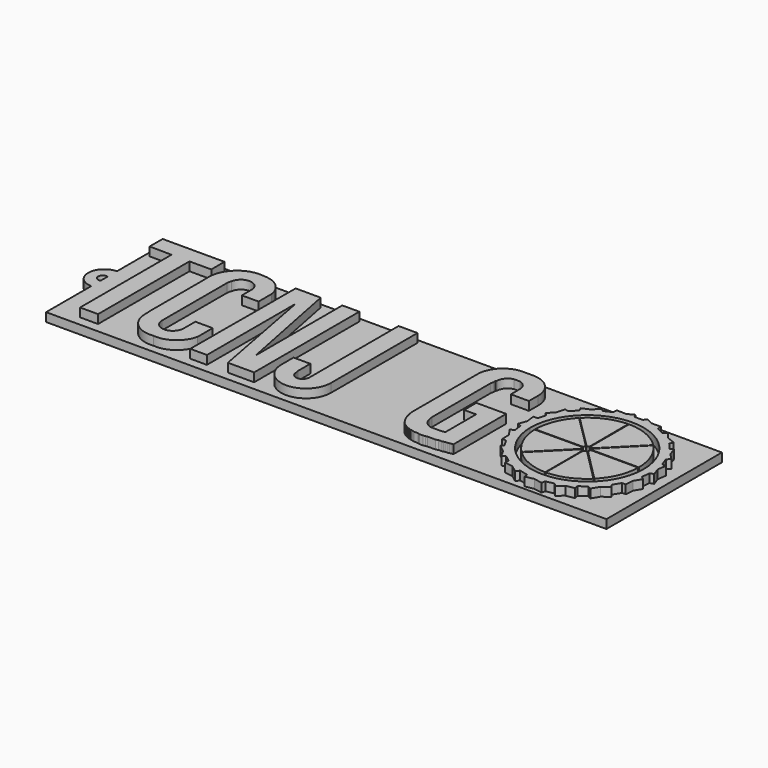
from build123d import *

# Parameters (mm, degrees)
F1_DEPTH = 2.54
F3_DEPTH = 1.27


with BuildPart() as f1:
    # F0 (on Top) → F1 (new body)
    with BuildSketch(Plane.XY):
        with BuildLine():
            Line((20.2388085143, -4.8551685796), (20.2208615876, -4.8728857521))
            ThreePointArc((20.2208615876, -4.8728857521), (22.5941960424, -6.4373678203), (25.3732144511, -7.035178208))
            Line((25.3732144511, -7.035178208), (25.3732144511, -0.2021755459))
            ThreePointArc((25.3732144511, -0.2021755459), (25.1911795936, -0.1619889805), (25.0303052219, -0.0678025382))
            Line((25.0303052219, -0.0678025382), (20.2388085143, -4.8551685796))
        make_face()
    extrude(amount=F1_DEPTH)


with BuildPart() as f1b:
    # F0 (on Top) → F1, piece 2 (new body)
    with BuildSketch(Plane.XY):
        with BuildLine():
            ThreePointArc((25.4460360782, -7.0355399518), (28.2674344304, -6.4418716657), (30.6671714392, -4.8437499606))
            Line((30.6671714392, -4.8437499606), (25.8550445346, -0.0087627248))
            ThreePointArc((25.8550445346, -0.0087627248), (25.6697399225, -0.1461755962), (25.4460360782, -0.2025376978))
            Line((25.4460360782, -0.2025376978), (25.4460360782, -7.0355399518))
        make_face()
    extrude(amount=F1_DEPTH)


with BuildPart() as f1c:
    # F0 (on Top) → F1, piece 3 (new body)
    with BuildSketch(Plane.XY):
        with BuildLine():
            ThreePointArc((30.741552545, -4.7695086759), (32.348006075, -2.3637159811), (32.9435151853, 0.4671673323))
            Line((32.9435151853, 0.4671673323), (26.0036706741, 0.469999295))
            ThreePointArc((26.0036706741, 0.469999295), (25.9958591342, 0.2655386863), (25.9190676274, 0.0758857792))
            Line((25.9190676274, 0.0758857792), (30.741552545, -4.7695086759))
        make_face()
    extrude(amount=F1_DEPTH)


with BuildPart() as f1d:
    # F0 (on Top) → F1, piece 4 (new body)
    with BuildSketch(Plane.XY):
        with BuildLine():
            ThreePointArc((32.9447425978, 0.5717830621), (32.4155590836, 3.3941413829), (30.8705670554, 5.8146250773))
            Line((30.8705670554, 5.8146250773), (25.8851022511, 0.8124837718))
            ThreePointArc((25.8851022511, 0.8124837718), (25.9516336853, 0.6982536254), (25.9901064643, 0.5717830621))
            Line((25.9901064643, 0.5717830621), (32.9447425978, 0.5717830621))
        make_face()
    extrude(amount=F1_DEPTH)


with BuildPart() as f1e:
    # F0 (on Top) → F1, piece 5 (new body)
    with BuildSketch(Plane.XY):
        with BuildLine():
            ThreePointArc((30.7975327821, 5.8904792336), (28.3552031429, 7.5615631262), (25.4581290727, 8.165266095))
            Line((25.4581290727, 8.165266095), (25.4581290727, 1.0400717004))
            ThreePointArc((25.4581290727, 1.0400717004), (25.6492612572, 0.9963921565), (25.8143413216, 0.8906188763))
            Line((25.8143413216, 0.8906188763), (30.7975327821, 5.8904792336))
        make_face()
    extrude(amount=F1_DEPTH)


with BuildPart() as f1f:
    # F0 (on Top) → F1, piece 6 (new body)
    with BuildSketch(Plane.XY):
        with BuildLine():
            Line((25.3706163978, 1.0349439428), (25.3382311517, 8.1643548287))
            ThreePointArc((25.3382311517, 8.1643548287), (22.4860396525, 7.5387214937), (20.076111383, 5.8898857973))
            Line((20.076111383, 5.8898857973), (25.0751678324, 0.9074955645))
            ThreePointArc((25.0751678324, 0.9074955645), (25.2152052865, 0.9890392232), (25.3706163978, 1.0349439428))
        make_face()
    extrude(amount=F1_DEPTH)


with BuildPart() as f1g:
    # F0 (on Top) → F1, piece 7 (new body)
    with BuildSketch(Plane.XY):
        with BuildLine():
            Line((25.0183406289, 0.85939735), (20.0242620092, 5.8368263484))
            ThreePointArc((20.0242620092, 5.8368263484), (18.4334974, 3.3945498132), (17.8717908347, 0.5345266576))
            Line((17.8717908347, 0.5345266576), (24.8201682764, 0.5660895619))
            Line((24.8201682764, 0.5660895619), (24.8363282504, 0.5660895619))
            ThreePointArc((24.8363282504, 0.5660895619), (24.9083135948, 0.7245468562), (25.0183406289, 0.85939735))
        make_face()
    extrude(amount=F1_DEPTH)


with BuildPart() as f1h:
    # F0 (on Top) → F1, piece 8 (new body)
    with BuildSketch(Plane.XY):
        with BuildLine():
            Line((24.8148586081, 0.467167104), (17.8727558136, 0.4356327022))
            ThreePointArc((17.8727558136, 0.4356327022), (18.505521379, -2.3968319477), (20.1409049494, -4.7944909792))
            Line((20.1409049494, -4.7944909792), (24.9501891303, 0.0114594479))
            ThreePointArc((24.9501891303, 0.0114594479), (24.8353975835, 0.2253182843), (24.8148586081, 0.467167104))
        make_face()
    extrude(amount=F1_DEPTH)


with BuildPart() as f1i:
    # F0 (on Top) → F1, piece 9 (new body)
    with BuildSketch(Plane.XY):
        Polygon((-35.5430516995, 10.6754432044), (-44.5581350124, 10.6754432044), (-44.5581350124, 8.3096053995), (-41.3417268193, 8.2687613166), (-41.3417268193, -8.3882931077), (-38.7209329403, -8.3882931077), (-38.7209329403, 8.2687613166), (-35.5430516995, 8.2687613166), align=None)
    extrude(amount=F1_DEPTH)


with BuildPart() as f1j:
    # F0 (on Top) → F1, piece 10 (new body)
    with BuildSketch(Plane.XY):
        with BuildLine():
            Line((-28.8296594865, 7.442066314), (-28.8296594865, 5.4502290286))
            Line((-28.8296594865, 5.4502290286), (-26.3910546548, 5.4502290286))
            Line((-26.3910546548, 5.4502290286), (-26.3910546548, 7.8400609627))
            ThreePointArc((-26.3910546548, 7.8400609627), (-27.534355465, 9.9094732706), (-29.7512516028, 10.7310422308))
            ThreePointArc((-29.7512516028, 10.7310422308), (-32.9796233106, 9.94571704), (-34.5906998611, 7.0399379901))
            ThreePointArc((-34.5906998611, 7.0399379901), (-34.6163433219, 6.4696717154), (-34.5906998611, 5.8994054406))
            Line((-34.5906998611, 5.8994054406), (-34.5906998611, -3.9360384845))
            Line((-34.5906998611, -3.9360384845), (-34.5061506725, -5.6642309219))
            ThreePointArc((-34.5061506725, -5.6642309219), (-33.0818827734, -7.9413555761), (-30.4815817273, -8.6138659545))
            ThreePointArc((-30.4815817273, -8.6138659545), (-27.8634511396, -7.9273133162), (-26.3787220812, -5.6642309219))
            Line((-26.3787220812, -5.6642309219), (-26.3787220812, -2.9303754137))
            Line((-26.3787220812, -2.9303754137), (-28.9085387833, -2.9303754137))
            Line((-28.9085387833, -2.9303754137), (-28.9085387833, -5.0562481784))
            ThreePointArc((-28.9085387833, -5.0562481784), (-30.4815817273, -6.6292911225), (-32.0546246714, -5.0562481784))
            Line((-32.0546246714, -5.0562481784), (-32.0546246714, -3.8961238616))
            Line((-32.0546246714, -3.8961238616), (-32.0546246714, 6.7584257185))
            ThreePointArc((-32.0546246714, 6.7584257185), (-32.02099944, 7.1022736757), (-31.9080289102, 7.4287698216))
            ThreePointArc((-31.9080289102, 7.4287698216), (-30.3745165671, 8.7486701594), (-28.8296594865, 7.442066314))
        make_face()
    extrude(amount=F1_DEPTH)


with BuildPart() as f1k:
    # F0 (on Top) → F1, piece 11 (new body)
    with BuildSketch(Plane.XY):
        Polygon((-21.4682455755, 10.621460954), (-25.1148260779, 10.621460954), (-25.1880801863, -8.5092169621), (-22.7539103127, -8.5092169621), (-22.7539103127, 7.6637094452), (-19.6980639941, -8.5092169621), (-15.872561524, -8.5092169621), (-15.872561524, 10.6620442666), (-18.3512551359, 10.6620442666), (-18.3512551359, -5.1447843589), align=None)
    extrude(amount=F1_DEPTH)


with BuildPart() as f1l:
    # F0 (on Top) → F1, piece 12 (new body)
    with BuildSketch(Plane.XY):
        with BuildLine():
            Line((-7.4160345013, 10.6950615145), (-10.1742140598, 10.6950615145))
            Line((-10.1742140598, 10.6950615145), (-10.1742140598, -5.0901795194))
            Line((-10.1742140598, -5.0901795194), (-10.1742140598, -5.5704360284))
            ThreePointArc((-10.1742140598, -5.5704360284), (-11.1243085112, -6.5389117485), (-12.1108099467, -5.6075473704))
            Line((-12.1108099467, -5.6075473704), (-12.2069801784, -5.0901795194))
            Line((-12.2069801784, -5.0901795194), (-12.2069801784, -2.8487796818))
            Line((-12.2069801784, -2.8487796818), (-14.6538169703, -2.8487796818))
            Line((-14.6538169703, -2.8487796818), (-14.6538169703, -5.0901795194))
            ThreePointArc((-14.6538169703, -5.0901795194), (-11.0349257358, -8.7090707539), (-7.4160345013, -5.0901795194))
            Line((-7.4160345013, -5.0901795194), (-7.4160345013, 10.6950615145))
        make_face()
    extrude(amount=F1_DEPTH)


with BuildPart() as f1m:
    # F0 (on Top) → F1, piece 13 (new body)
    with BuildSketch(Plane.XY):
        with BuildLine():
            Line((10.3221394473, 7.1783274024), (10.3221394473, 5.5337272196))
            Line((10.3221394473, 5.5337272196), (12.9594270491, 5.5337272196))
            Line((12.9594270491, 5.5337272196), (12.9594270491, 7.1783274024))
            ThreePointArc((12.9594270491, 7.1783274024), (11.9598825798, 9.6932222912), (9.4646316373, 10.7408425383))
            Line((9.4646316373, 10.7408425383), (7.8804742896, 10.7408425383))
            ThreePointArc((7.8804742896, 10.7408425383), (5.3088695248, 9.6336231378), (4.2493872696, 7.0419859684))
            Line((4.2493872696, 7.0419859684), (4.2493872696, -4.8529786446))
            Line((4.2493872696, -4.8529786446), (4.2493872696, -4.9698382073))
            Line((4.2493872696, -4.9698382073), (4.330286605, -5.181594418))
            Line((4.330286605, -5.181594418), (4.330286605, -5.4830574819))
            Line((4.330286605, -5.4830574819), (4.4540647465, -5.7458809034))
            Line((4.4540647465, -5.7458809034), (4.4540647465, -6.0906499269))
            Line((4.4540647465, -6.0906499269), (4.5646092274, -6.1890465595))
            Line((4.5646092274, -6.1890465595), (4.5646092274, -6.3424088449))
            Line((4.5646092274, -6.3424088449), (4.6901543044, -6.5147812866))
            Line((4.6901543044, -6.5147812866), (4.7002436642, -6.6535815252))
            Line((4.7002436642, -6.6535815252), (4.808725674, -6.7501423337))
            Line((4.808725674, -6.7501423337), (4.808725674, -6.8699736987))
            Line((4.808725674, -6.8699736987), (4.9285244548, -6.9517727398))
            Line((4.9285244548, -6.9517727398), (4.9285244548, -7.0284499243))
            Line((4.9285244548, -7.0284499243), (5.0491316595, -7.1358034775))
            Line((5.0491316595, -7.1358034775), (5.0491316595, -7.2641685993))
            Line((5.0491316595, -7.2641685993), (5.1515445464, -7.3340964892))
            Line((5.1515445464, -7.3340964892), (5.1515445464, -7.3821519791))
            Line((5.1515445464, -7.3821519791), (5.1840999852, -7.3821519791))
            Line((5.1840999852, -7.3821519791), (5.2890822642, -7.4819337033))
            Line((5.2890822642, -7.4819337033), (5.2890822642, -7.5332328134))
            Line((5.2890822642, -7.5332328134), (5.4028433167, -7.641358433))
            Line((5.4028433167, -7.641358433), (5.469416117, -7.641358433))
            Line((5.469416117, -7.641358433), (5.5087551826, -7.7442435004))
            Line((5.5087551826, -7.7442435004), (5.5919716486, -7.7442435004))
            Line((5.5919716486, -7.7442435004), (5.632823182, -7.8531821646))
            Line((5.632823182, -7.8531821646), (5.7357091808, -7.8531821646))
            Line((5.7357091808, -7.8531821646), (5.7735348471, -7.9379110985))
            Line((5.7735348471, -7.9379110985), (5.8664007463, -7.9692147129))
            Line((5.8664007463, -7.9692147129), (5.9933726096, -8.0854298004))
            Line((5.9933726096, -8.0854298004), (6.0971591973, -8.0854298004))
            Line((6.0971591973, -8.0854298004), (6.1881019154, -8.1585945018))
            Line((6.1881019154, -8.1585945018), (6.2229566627, -8.2100090959))
            Line((6.2229566627, -8.2100090959), (6.34236153, -8.2100090959))
            Line((6.34236153, -8.2100090959), (6.5224113294, -8.3196872302))
            Line((6.5224113294, -8.3196872302), (6.6680040562, -8.3196872302))
            Line((6.6680040562, -8.3196872302), (6.8342879766, -8.4289695524))
            Line((6.8342879766, -8.4289695524), (7.0881860682, -8.4289695524))
            Line((7.0881860682, -8.4289695524), (7.1258664482, -8.4538004749))
            Line((7.1258664482, -8.4538004749), (7.4377663785, -8.5512261294))
            Line((7.4377663785, -8.5512261294), (8.044997079, -8.5512261294))
            Line((8.044997079, -8.5512261294), (8.1196435147, -8.575387431))
            Line((8.1196435147, -8.575387431), (8.3645347857, -8.6469446697))
            Line((8.3645347857, -8.6469446697), (8.8242449217, -8.6469446697))
            Line((8.8242449217, -8.6469446697), (9.1576388457, -8.575387431))
            Line((9.1576388457, -8.575387431), (9.4617594385, -8.5371414601))
            Line((9.4617594385, -8.5371414601), (10.597152804, -8.5371414601))
            Line((10.597152804, -8.5371414601), (10.9506508687, -8.4227753437))
            Line((10.9506508687, -8.4227753437), (10.986923089, -8.4227753437))
            Line((10.986923089, -8.4227753437), (11.0753354036, -8.4227753437))
            Line((11.0753354036, -8.4227753437), (11.4770781713, -8.4227753437))
            Line((11.4770781713, -8.4227753437), (11.6142962832, -8.3783815998))
            Line((11.6142962832, -8.3783815998), (11.8327074104, -8.3077197351))
            Line((11.8327074104, -8.3077197351), (12.2430611753, -8.3077197351))
            Line((12.2430611753, -8.3077197351), (12.4357555413, -8.2453779333))
            Line((12.4357555413, -8.2453779333), (12.6012441122, -8.1943218984))
            Line((12.6012441122, -8.1943218984), (12.9230291002, -8.1943218984))
            Line((12.9230291002, -8.1943218984), (12.9230291002, 1.4320520995))
            Line((12.9230291002, 1.4320520995), (8.5767226645, 1.4320520995))
            Line((8.5767226645, 1.4320520995), (8.5767226645, -0.7997914373))
            Line((8.5767226645, -0.7997914373), (10.3223564454, -0.7997914373))
            Line((10.3223564454, -0.7997914373), (10.3223564454, -0.8359314098))
            Line((10.3223564454, -0.8359314098), (10.3223564454, -6.4439257995))
            Line((10.3223564454, -6.4439257995), (9.9576505252, -6.4439257995))
            Line((9.9576505252, -6.4439257995), (9.8595142716, -6.4933115073))
            Line((9.8595142716, -6.4933115073), (8.2778184094, -6.4933115073))
            ThreePointArc((8.2778184094, -6.4933115073), (7.3588392659, -5.9580102969), (6.9057865419, -4.9958183818))
            Line((6.9057865419, -4.9958183818), (6.8274977037, -4.4338364542))
            Line((6.8274977037, -4.4338364542), (6.8274977037, 6.3048003785))
            Line((6.8274977037, 6.3048003785), (6.9070307889, 6.5795503169))
            Line((6.9070307889, 6.5795503169), (6.9070307889, 6.9639509156))
            Line((6.9070307889, 6.9639509156), (7.0216141992, 7.1783274024))
            ThreePointArc((7.0216141992, 7.1783274024), (7.3961237772, 8.1479788242), (8.2982963302, 8.6642791129))
            Line((8.2982963302, 8.6642791129), (9.135945549, 8.6642791129))
            ThreePointArc((9.135945549, 8.6642791129), (9.9892245251, 8.1289993293), (10.3221394473, 7.1783274024))
        make_face()
    extrude(amount=F1_DEPTH)


with BuildPart() as f1n:
    # F0 (on Top) → F1, piece 14 (new body)
    with BuildSketch(Plane.XY):
        Polygon((26.3322189801, 10.4585735671), (25.9898200982, 9.9808069489), (24.8170465582, 9.9808069489), (24.5690223181, 10.4575379364), (23.6010264572, 9.9539280512), (22.1912421637, 9.9808069489), (22.1912421637, 9.3850697003), (21.053730359, 8.8458655945), (20.655623486, 9.2228156126), (19.7932981557, 8.3120910489), (18.6756670826, 7.8250685319), (18.9078039818, 7.2923551508), (18.0216598724, 6.3564749452), (17.4735177659, 6.5022570624), (17.1545936091, 5.3030992893), (16.2887359164, 4.3886441043), (16.7197518058, 3.9805339753), (16.368803417, 2.8486082874), (15.7550339007, 2.8054640706), (15.9215283, 1.5234578013), (15.4986817741, 0.3869862402), (16.0335512859, 0.1879775517), (16.1970880234, -1.0386017539), (15.6457227074, -1.3418529571), (16.4168205463, -2.4344340355), (16.4168205463, -3.6775918134), (16.9878330433, -3.6775918134), (17.6082279884, -4.7141752594), (17.312648555, -5.1301388458), (18.3772284889, -5.9440980122), (18.944560399, -6.9889315792), (19.4248984912, -6.7014493456), (20.3528300279, -7.4068895929), (20.3528300279, -8.0307769977), (21.5590808892, -8.2192487471), (22.5445436428, -8.9684258806), (22.908915794, -8.4891331105), (24.1285588943, -8.7765847721), (24.2125939929, -9.3213637747), (25.4480976962, -9.0757004373), (26.6788218521, -9.3276027047), (26.794774499, -8.7610904421), (27.9719595217, -8.5371249743), (28.3758145177, -8.9709080212), (29.2596694433, -8.1975349613), (30.4893840455, -7.9765702986), (30.3903821966, -7.4256042855), (31.3899878764, -6.6772397996), (31.9009896719, -6.9615297407), (32.5379658841, -5.9010271371), (33.5646592993, -5.1323831554), (33.2104965056, -4.7276256769), (33.8630134998, -3.6412492032), (34.4039339923, -3.6412492032), (34.5210608446, -2.4140336473), (35.1399372736, -1.3836653986), (34.6856888735, -1.0496286132), (34.8049616462, 0.200071172), (35.3409860634, 0.389304906), (34.939600043, 1.5262729459), (35.130782833, 2.8022703327), (34.5691915953, 2.8022703327), (34.1252040469, 4.0382550641), (34.5747422778, 4.4822398185), (33.7203178096, 5.3473516497), (33.2960177564, 6.585743612), (32.8537252151, 6.3147622704), (32.7750365929, 6.3897437175), (32.0004889105, 7.2999488935), (32.2157170975, 7.8489355355), (31.0027141475, 8.3244888655), (30.2453216516, 9.2519352756), (29.7599722051, 8.8389225847), (28.6573496067, 9.386884848), (28.6573496067, 9.9648813329), (27.3355309271, 9.9648813329), align=None)
        with BuildLine():
            ThreePointArc((25.3959755368, 8.7678223438), (31.2692614957, 6.3515955414), (33.6582240068, 0.467167104))
            ThreePointArc((33.6582240068, 0.467167104), (31.2078413948, -5.2715146327), (25.4262395554, -7.6188371905))
            ThreePointArc((25.4262395554, -7.6188371905), (19.6482361811, -5.2623973474), (17.1763496698, 0.467167104))
            ThreePointArc((17.1763496698, 0.467167104), (19.5800619013, 6.3069408046), (25.3959755368, 8.7678223438))
        make_face(mode=Mode.SUBTRACT)
    extrude(amount=F1_DEPTH)


with BuildPart() as f3:
    # F2 (on Top) → F3 (new body)
    with BuildSketch(Plane.XY):
        Polygon((36.5230217576, 11.2506113946), (-45.1710820198, 11.2506113946), (-45.1710820198, 3.1122018117), (-45.1710820198, 1.4177351259), (-45.1710820198, 0.1283054007), (-45.1710820198, -1.5698613133), (-45.1710820198, -9.7981244326), (36.5230217576, -9.7981244326), align=None)
        with BuildLine():
            Line((-45.1710820198, 1.4177351259), (-45.1710820198, 3.1122018117))
            ThreePointArc((-45.1710820198, 3.1122018117), (-47.4872778134, 0.7711702492), (-45.1710820198, -1.5698613133))
            Line((-45.1710820198, -1.5698613133), (-45.1710820198, 0.1283054007))
            ThreePointArc((-45.1710820198, 0.1283054007), (-46.0471951412, 0.7730202633), (-45.1710820198, 1.4177351259))
        make_face()
    extrude(amount=F3_DEPTH)


solid = Compound([f1.part, f1b.part, f1c.part, f1d.part, f1e.part, f1f.part, f1g.part, f1h.part, f1i.part, f1j.part, f1k.part, f1l.part, f1m.part, f1n.part, f3.part])
